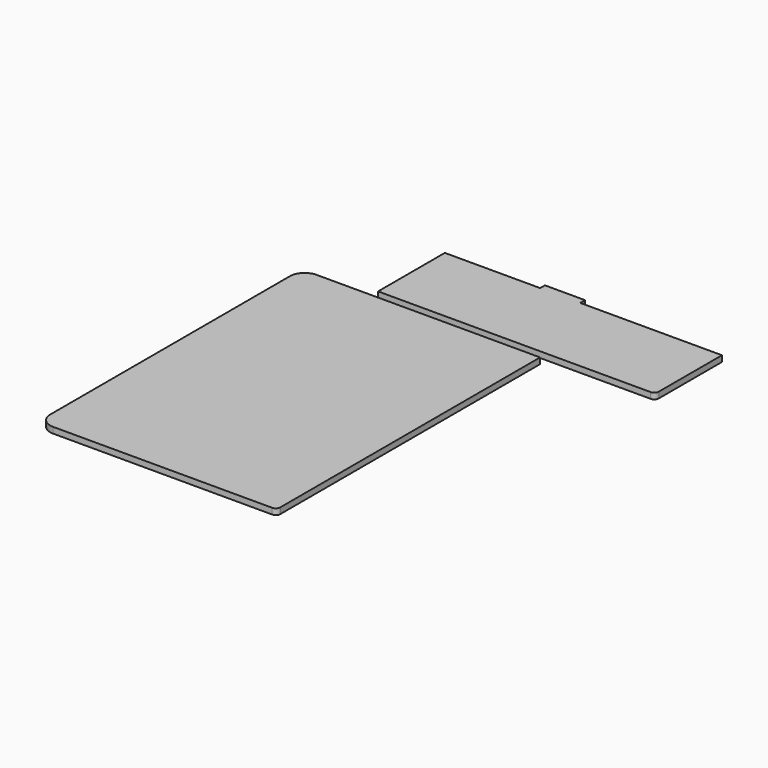
from build123d import *

# Parameters (mm, degrees)
F1_DEPTH = 25.4
F3_DEPTH = 25.4


with BuildPart() as f1:
    # F0 (on Top) → F1 (new body)
    with BuildSketch(Plane.XY):
        with BuildLine():
            ThreePointArc((-630.587493, 405.434838), (-675.488773, 386.836118), (-694.087493, 341.934838))
            Line((-694.087493, 341.934838), (-694.087493, -934.415162))
            ThreePointArc((-694.087493, -934.415162), (-675.488773, -979.316443), (-630.587493, -997.915162))
            Line((-630.587493, -997.915162), (302.862507, -997.915162))
            ThreePointArc((302.862507, -997.915162), (316.332891, -992.335547), (321.912507, -978.865162))
            Line((321.912507, -978.865162), (321.912507, 405.434838))
            Line((321.912507, 405.434838), (-389.287493, 405.434838))
            Line((-389.287493, 405.434838), (-630.587493, 405.434838))
        make_face()
    extrude(amount=F1_DEPTH)


with BuildPart() as f3:
    # F2 (on Top) → F3 (new body)
    with BuildSketch(Plane.XY):
        with BuildLine():
            Line((-396.421381, 440.14478), (208.255641, 440.14478))
            Line((208.255641, 440.14478), (765.628619, 440.14478))
            ThreePointArc((765.628619, 440.14478), (779.099003, 445.724396), (784.678619, 459.19478))
            Line((784.678619, 459.19478), (784.678619, 795.74478))
            Line((784.678619, 795.74478), (181.428619, 795.74478))
            Line((181.428619, 795.74478), (181.428619, 821.14478))
            Line((181.428619, 821.14478), (9.978619, 821.14478))
            Line((9.978619, 821.14478), (9.978619, 795.74478))
            Line((9.978619, 795.74478), (-396.421381, 795.74478))
            Line((-396.421381, 795.74478), (-396.421381, 440.14478))
        make_face()
    extrude(amount=F3_DEPTH)


solid = Compound([f1.part, f3.part])
